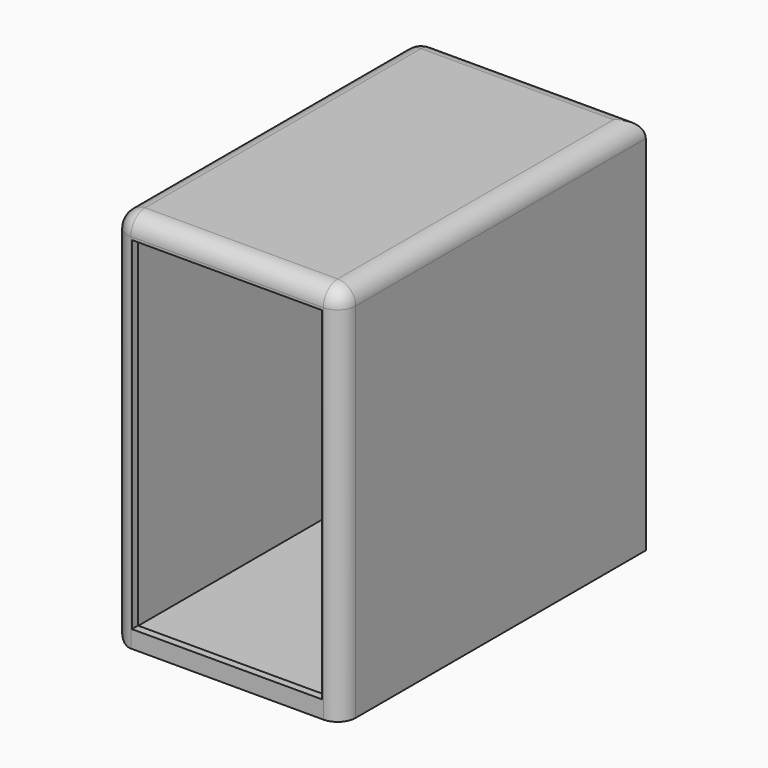
from build123d import *

# Parameters (mm, degrees)
F0_W     = 76.2
F0_H     = 127
F1_DEPTH = 127
F2_T     = -2.54
F3_W     = 63.5
F3_H     = 114.3
F4_DEPTH = 76.2
F5_R     = 5.9944


with BuildPart() as f1:
    # F0 (on Front) → F1 (new body)
    with BuildSketch(Plane.XZ):
        with Locations((-38.1, -2.7002265453)):
            Rectangle(F0_W, F0_H)
    extrude(amount=-F1_DEPTH)

    # F2 (hollow: no face is removed)
    offset(amount=F2_T, mode=Mode.SUBTRACT)

    # F3 (on face) → F4 (cut)
    with BuildSketch(Plane.XZ):
        with Locations((-38.1208891869, -3.2391424835)):
            Rectangle(F3_W, F3_H)
    extrude(amount=-F4_DEPTH, mode=Mode.SUBTRACT)

    # F5
    f5_edges = [f1.edges().sort_by_distance(p)[0] for p in [
        (0, 63.5, 60.799773),
        (-38.1, 0, 60.799773),
        (0, 0, -2.700227),
        (-76.2, 63.5, 60.799773),
        (-76.2, 63.5, -66.200227),
        (-76.2, 0, -2.700227),
        (-76.2, 127, -2.700227),
        (-38.1, 127, 60.799773),
    ]]
    fillet(f5_edges, radius=F5_R)


solid = f1.part
